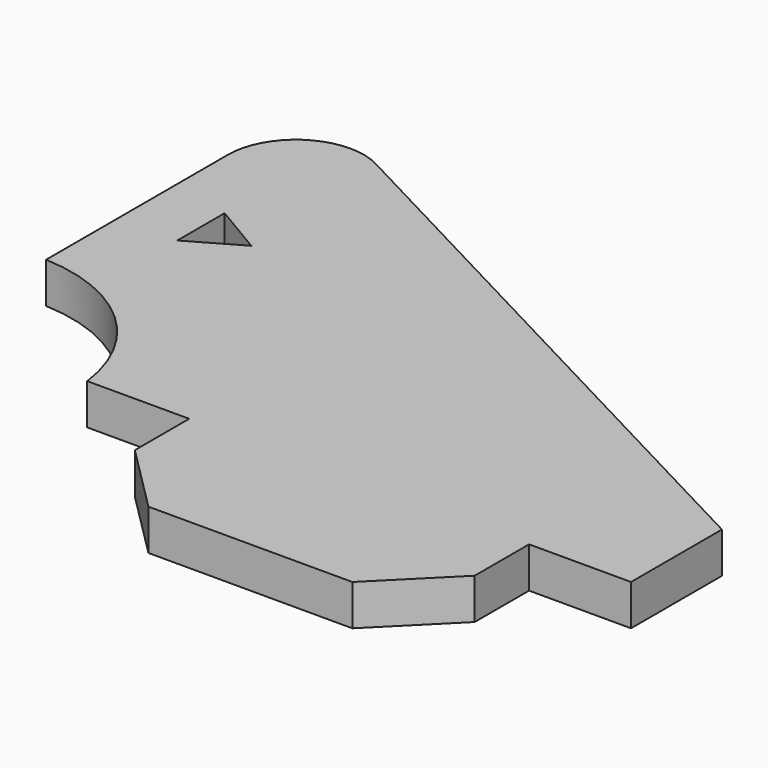
from build123d import *

# Parameters (mm, degrees)
F1_DEPTH = 1.2


with BuildPart() as f1:
    # F0 (on Top) → F1 (new body)
    with BuildSketch(Plane.XY):
        with BuildLine():
            ThreePointArc((-18.718661, 12.857284), (-15.707568, 11.619379), (-14.206161, 8.730631))
            Line((-14.206161, 8.730631), (-11.206161, 8.730631))
            Line((-11.206161, 8.730631), (-11.206161, 6.730631))
            Line((-11.206161, 6.730631), (-9.206161, 4.730631))
            Line((-9.206161, 4.730631), (-3.206161, 4.730631))
            Line((-3.206161, 4.730631), (-1.206161, 6.730631))
            Line((-1.206161, 6.730631), (-1.206161, 8.730631))
            Line((-1.206161, 8.730631), (1.793839, 8.730631))
            Line((1.793839, 8.730631), (1.793839, 12.073743))
            Line((1.793839, 12.073743), (-15.788014, 21.316626))
            ThreePointArc((-15.788014, 21.316626), (-17.752756, 21.258258), (-18.718661, 19.546345))
            Line((-18.718661, 19.546345), (-18.718661, 12.857284))
        make_face()
        Polygon((-16.961733, 15.487296), (-16.961733, 17.227273), (-15.46876, 16.343248), align=None, mode=Mode.SUBTRACT)
    extrude(amount=F1_DEPTH)


solid = f1.part
